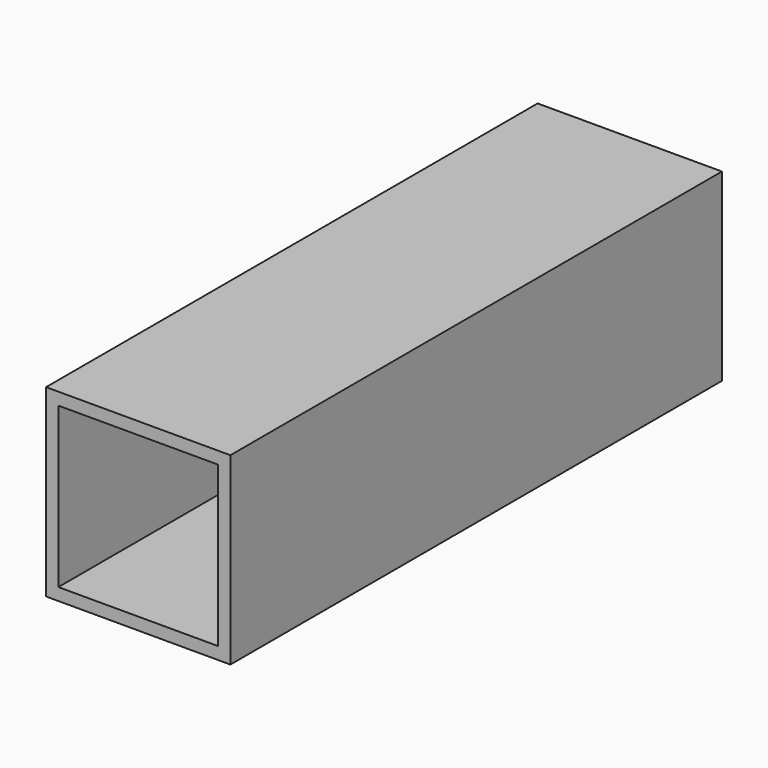
from build123d import *

# Parameters (mm, degrees)
SKETCH001_W   = 30
SKETCH001_H   = 30
SKETCH001_W_2 = 26
SKETCH001_H_2 = 26
PAD001_DEPTH  = 100


with BuildPart() as part:
    # Sketch001 → Pad001 (new body)
    with BuildSketch(Plane.XZ):
        with Locations((15, -15)):
            Rectangle(SKETCH001_W, SKETCH001_H)
        with Locations((15, -15)):
            Rectangle(SKETCH001_W_2, SKETCH001_H_2, mode=Mode.SUBTRACT)
    extrude(amount=PAD001_DEPTH)


with BuildPart() as part_1:
    # Body001 placement: moved
    add(part.part.moved(Location((-240, 390, 0))))


solid = part_1.part
